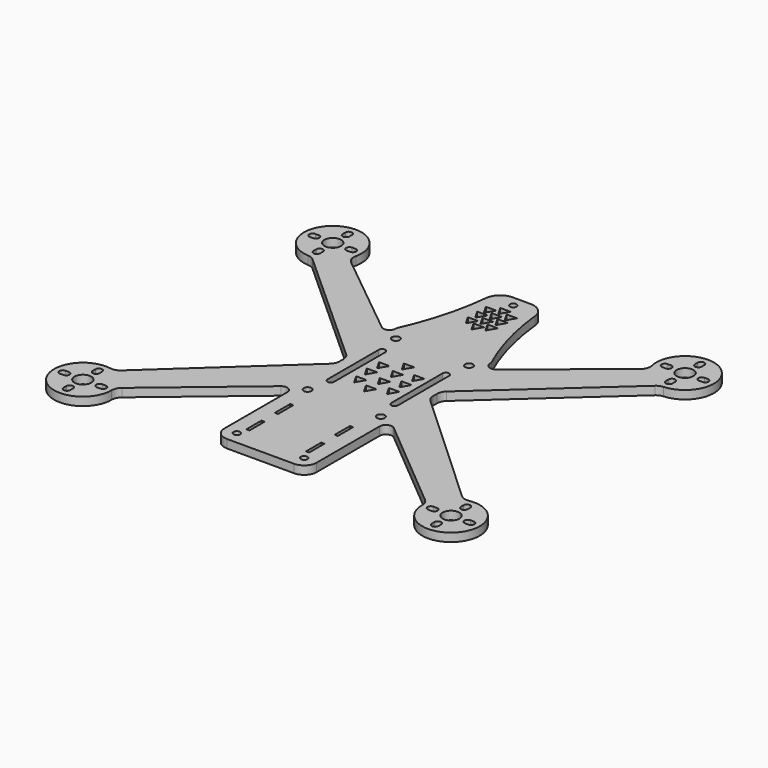
from build123d import *

# Parameters (mm, degrees)
F0_R     = 4
F0_R_2   = 1.5875
F0_W     = 1.5125
F0_H     = 9.125
F0_R_3   = 1.875
F1_DEPTH = 4


with BuildPart() as f1:
    # F0 (on Top) → F1 (new body)
    with BuildSketch(Plane.XY):
        with BuildLine():
            Line((38.480236, -122.769179), (-18.920834, -69.924559))
            ThreePointArc((-18.920834, -69.924559), (-20.116675, -68.246537), (-20.534285, -66.228767))
            Line((-20.534285, -66.228767), (-20.526315, -63.922007))
            ThreePointArc((-20.526315, -63.922007), (-20.091813, -61.900534), (-18.876589, -60.227698))
            Line((-18.876589, -60.227698), (38.944377, -8.035872))
            ThreePointArc((38.944377, -8.035872), (40.373627, -7.131205), (42.022729, -6.754855))
            ThreePointArc((42.022729, -6.754855), (49.57096, 17.9402), (27.859516, 3.960404))
            ThreePointArc((27.859516, 3.960404), (27.703945, 1.222553), (26.127751, -1.021471))
            Line((26.127751, -1.021471), (-15.525642, -34.751723))
            ThreePointArc((-15.525642, -34.751723), (-18.705137, -35.128041), (-20.413604, -32.420285))
            Line((-20.413604, -32.420285), (-20.413604, -31.709916))
            ThreePointArc((-20.413604, -31.709916), (-27.438374, -12.314948), (-31.230664, 7.961411))
            ThreePointArc((-31.230664, 7.961411), (-33.62772, 12.675751), (-38.564659, 14.572461))
            Line((-38.564659, 14.572461), (-42.913604, 14.572461))
            Line((-42.913604, 14.572461), (-47.262548, 14.572461))
            ThreePointArc((-47.262548, 14.572461), (-52.199487, 12.675751), (-54.596543, 7.961411))
            ThreePointArc((-54.596543, 7.961411), (-58.388833, -12.314948), (-65.413604, -31.709916))
            Line((-65.413604, -31.709916), (-65.413604, -32.420285))
            ThreePointArc((-65.413604, -32.420285), (-67.12207, -35.128041), (-70.301565, -34.751723))
            Line((-70.301565, -34.751723), (-111.954958, -1.021471))
            ThreePointArc((-111.954958, -1.021471), (-113.531152, 1.222553), (-113.686723, 3.960404))
            ThreePointArc((-113.686723, 3.960404), (-135.398167, 17.9402), (-127.849937, -6.754855))
            ThreePointArc((-127.849937, -6.754855), (-126.200834, -7.131205), (-124.771584, -8.035872))
            Line((-124.771584, -8.035872), (-66.950513, -60.227793))
            ThreePointArc((-66.950513, -60.227793), (-65.735325, -61.900549), (-65.300789, -63.921928))
            Line((-65.300789, -63.921928), (-65.292688, -66.228846))
            ThreePointArc((-65.292688, -66.228846), (-65.710273, -68.246712), (-66.906159, -69.924812))
            Line((-66.906159, -69.924812), (-124.30723, -122.769431))
            ThreePointArc((-124.30723, -122.769431), (-126.27943, -123.886715), (-128.542296, -124.018385))
            ThreePointArc((-128.542296, -124.018385), (-141.378038, -146.443924), (-117.125863, -137.528037))
            ThreePointArc((-117.125863, -137.528037), (-116.660561, -135.406816), (-115.339823, -133.682945))
            Line((-115.339823, -133.682945), (-69.915865, -95.567719))
            ThreePointArc((-69.915865, -95.567719), (-66.719647, -95.146928), (-64.987502, -97.865852))
            Line((-64.987502, -97.865852), (-64.987502, -135.432331))
            ThreePointArc((-64.987502, -135.432331), (-63.230143, -139.674972), (-58.987502, -141.432331))
            Line((-58.987502, -141.432331), (-26.839705, -141.432331))
            ThreePointArc((-26.839705, -141.432331), (-22.597064, -139.674972), (-20.839705, -135.432331))
            Line((-20.839705, -135.432331), (-20.839705, -97.865669))
            ThreePointArc((-20.839705, -97.865669), (-19.107564, -95.146748), (-15.911349, -95.56753))
            Line((-15.911349, -95.56753), (29.512817, -133.682693))
            ThreePointArc((29.512817, -133.682693), (30.833563, -135.406566), (31.298869, -137.527792))
            ThreePointArc((31.298869, -137.527792), (55.551047, -146.443669), (42.715303, -124.018133))
            ThreePointArc((42.715303, -124.018133), (40.452437, -123.886463), (38.480236, -122.769179))
        make_face()
        with BuildLine():
            Line((-129.276103, -145.46907), (-129.276103, -147.06907))
            ThreePointArc((-129.276103, -147.06907), (-130.876103, -148.66907), (-132.476103, -147.06907))
            Line((-132.476103, -147.06907), (-132.476103, -145.46907))
            ThreePointArc((-132.476103, -145.46907), (-130.876103, -143.86907), (-129.276103, -145.46907))
        make_face(mode=Mode.SUBTRACT)
        with BuildLine():
            ThreePointArc((-140.476103, -139.16907), (-142.076103, -137.56907), (-140.476103, -135.96907))
            Line((-140.476103, -135.96907), (-138.876103, -135.96907))
            ThreePointArc((-138.876103, -135.96907), (-137.276103, -137.56907), (-138.876103, -139.16907))
            Line((-138.876103, -139.16907), (-140.476103, -139.16907))
        make_face(mode=Mode.SUBTRACT)
        with Locations((-130.876103, -137.56907)):
            Circle(F0_R, mode=Mode.SUBTRACT)
        with BuildLine():
            ThreePointArc((-122.876103, -139.16907), (-124.476103, -137.56907), (-122.876103, -135.96907))
            Line((-122.876103, -135.96907), (-121.276103, -135.96907))
            ThreePointArc((-121.276103, -135.96907), (-119.676103, -137.56907), (-121.276103, -139.16907))
            Line((-121.276103, -139.16907), (-122.876103, -139.16907))
        make_face(mode=Mode.SUBTRACT)
        with BuildLine():
            ThreePointArc((-132.476103, -128.06907), (-130.876103, -126.46907), (-129.276103, -128.06907))
            Line((-129.276103, -128.06907), (-129.276103, -129.66907))
            ThreePointArc((-129.276103, -129.66907), (-130.876103, -131.26907), (-132.476103, -129.66907))
            Line((-132.476103, -129.66907), (-132.476103, -128.06907))
        make_face(mode=Mode.SUBTRACT)
        with Locations((-58.987502, -135.432331)):
            Circle(F0_R_2, mode=Mode.SUBTRACT)
        with Locations((-57.418487, -126.273915)):
            Rectangle(F0_W, F0_H, mode=Mode.SUBTRACT)
        with Locations((-57.418487, -109.148915)):
            Rectangle(F0_W, F0_H, mode=Mode.SUBTRACT)
        with Locations((-60.413604, -91.440733)):
            Circle(F0_R_3, mode=Mode.SUBTRACT)
        Polygon((-45.491698, -75.168784), (-40.491698, -75.168784), (-42.991698, -79.498911), align=None, mode=Mode.SUBTRACT)
        Polygon((-52.961795, -71.736577), (-47.961795, -71.736577), (-50.461795, -76.066704), align=None, mode=Mode.SUBTRACT)
        Polygon((-53.819845, -64.316954), (-48.819845, -64.316954), (-51.319845, -68.647081), align=None, mode=Mode.SUBTRACT)
        with Locations((-26.839705, -135.432331)):
            Circle(F0_R_2, mode=Mode.SUBTRACT)
        with Locations((-28.893487, -126.273915)):
            Rectangle(F0_W, F0_H, mode=Mode.SUBTRACT)
        with Locations((-28.893487, -109.148915)):
            Rectangle(F0_W, F0_H, mode=Mode.SUBTRACT)
        with BuildLine():
            Line((43.448896, -147.06907), (43.448896, -145.46907))
            ThreePointArc((43.448896, -145.46907), (45.048896, -143.86907), (46.648896, -145.46907))
            Line((46.648896, -145.46907), (46.648896, -147.06907))
            ThreePointArc((46.648896, -147.06907), (45.048896, -148.66907), (43.448896, -147.06907))
        make_face(mode=Mode.SUBTRACT)
        with BuildLine():
            Line((35.448896, -135.96907), (37.048896, -135.96907))
            ThreePointArc((37.048896, -135.96907), (38.648896, -137.56907), (37.048896, -139.16907))
            Line((37.048896, -139.16907), (35.448896, -139.16907))
            ThreePointArc((35.448896, -139.16907), (33.848896, -137.56907), (35.448896, -135.96907))
        make_face(mode=Mode.SUBTRACT)
        with Locations((45.048896, -137.56907)):
            Circle(F0_R, mode=Mode.SUBTRACT)
        with BuildLine():
            Line((53.048896, -135.96907), (54.648896, -135.96907))
            ThreePointArc((54.648896, -135.96907), (56.248896, -137.56907), (54.648896, -139.16907))
            Line((54.648896, -139.16907), (53.048896, -139.16907))
            ThreePointArc((53.048896, -139.16907), (51.448896, -137.56907), (53.048896, -135.96907))
        make_face(mode=Mode.SUBTRACT)
        with BuildLine():
            Line((46.648896, -128.06907), (46.648896, -129.66907))
            ThreePointArc((46.648896, -129.66907), (45.048896, -131.26907), (43.448896, -129.66907))
            Line((43.448896, -129.66907), (43.448896, -128.06907))
            ThreePointArc((43.448896, -128.06907), (45.048896, -126.46907), (46.648896, -128.06907))
        make_face(mode=Mode.SUBTRACT)
        with Locations((-25.413604, -91.440733)):
            Circle(F0_R_3, mode=Mode.SUBTRACT)
        Polygon((-37.466391, -71.484211), (-32.466391, -71.484211), (-34.966391, -75.814338), align=None, mode=Mode.SUBTRACT)
        Polygon((-45.188854, -67.345376), (-40.188854, -67.345376), (-42.688854, -71.675503), align=None, mode=Mode.SUBTRACT)
        Polygon((-37.314969, -64.316954), (-32.314969, -64.316954), (-34.814969, -68.647081), align=None, mode=Mode.SUBTRACT)
        with BuildLine():
            ThreePointArc((-59.751098, -49.775325), (-58.163598, -48.187825), (-56.576098, -49.775325))
            Line((-56.576098, -49.775325), (-56.576098, -80.375449))
            ThreePointArc((-56.576098, -80.375449), (-58.163598, -81.962949), (-59.751098, -80.375449))
            Line((-59.751098, -80.375449), (-59.751098, -49.775325))
        make_face(mode=Mode.SUBTRACT)
        Polygon((-53.401707, -57.506855), (-48.401707, -57.506855), (-50.901707, -61.836982), align=None, mode=Mode.SUBTRACT)
        Polygon((-45.544053, -52.541251), (-40.544053, -52.541251), (-43.044053, -56.871378), align=None, mode=Mode.SUBTRACT)
        with Locations((-60.413604, -38.709916)):
            Circle(F0_R_3, mode=Mode.SUBTRACT)
        with BuildLine():
            Line((-128.702157, -2.524999), (-128.702157, -0.924999))
            ThreePointArc((-128.702157, -0.924999), (-127.102157, 0.675001), (-125.502157, -0.924999))
            Line((-125.502157, -0.924999), (-125.502157, -2.524999))
            ThreePointArc((-125.502157, -2.524999), (-127.102157, -4.124999), (-128.702157, -2.524999))
        make_face(mode=Mode.SUBTRACT)
        with BuildLine():
            ThreePointArc((-136.702157, 5.375001), (-138.302157, 6.975001), (-136.702157, 8.575001))
            Line((-136.702157, 8.575001), (-135.102157, 8.575001))
            ThreePointArc((-135.102157, 8.575001), (-133.502157, 6.975001), (-135.102157, 5.375001))
            Line((-135.102157, 5.375001), (-136.702157, 5.375001))
        make_face(mode=Mode.SUBTRACT)
        with Locations((-127.102157, 6.975001)):
            Circle(F0_R, mode=Mode.SUBTRACT)
        with BuildLine():
            ThreePointArc((-128.702157, 16.475001), (-127.102157, 18.075001), (-125.502157, 16.475001))
            Line((-125.502157, 16.475001), (-125.502157, 14.875001))
            ThreePointArc((-125.502157, 14.875001), (-127.102157, 13.275001), (-128.702157, 14.875001))
            Line((-128.702157, 14.875001), (-128.702157, 16.475001))
        make_face(mode=Mode.SUBTRACT)
        with BuildLine():
            Line((-117.502157, 5.375001), (-119.102157, 5.375001))
            ThreePointArc((-119.102157, 5.375001), (-120.702157, 6.975001), (-119.102157, 8.575001))
            Line((-119.102157, 8.575001), (-117.502157, 8.575001))
            ThreePointArc((-117.502157, 8.575001), (-115.902157, 6.975001), (-117.502157, 5.375001))
        make_face(mode=Mode.SUBTRACT)
        Polygon((-45.466221, -11.027573), (-40.466221, -11.027573), (-42.966221, -15.3577), align=None, mode=Mode.SUBTRACT)
        Polygon((-50.24943, -8.434934), (-45.24943, -8.434934), (-47.74943, -12.765061), align=None, mode=Mode.SUBTRACT)
        Polygon((-45.618231, -5.409554), (-40.618231, -5.409554), (-43.118231, -9.739681), align=None, mode=Mode.SUBTRACT)
        Polygon((-50.330999, -2.702954), (-45.330999, -2.702954), (-47.830999, -7.033081), align=None, mode=Mode.SUBTRACT)
        Polygon((-50.24943, 2.370082), (-45.24943, 2.370082), (-47.74943, -1.960045), align=None, mode=Mode.SUBTRACT)
        Polygon((-45.474085, 4.969502), (-40.474085, 4.969502), (-42.974085, 0.639375), align=None, mode=Mode.SUBTRACT)
        with Locations((-42.913604, 9.572461)):
            Circle(F0_R_2, mode=Mode.SUBTRACT)
        Polygon((-44.962982, -59.88714), (-39.962982, -59.88714), (-42.462982, -64.217267), align=None, mode=Mode.SUBTRACT)
        Polygon((-36.709285, -57.45254), (-31.709285, -57.45254), (-34.209285, -61.782667), align=None, mode=Mode.SUBTRACT)
        with BuildLine():
            ThreePointArc((-26.080192, -49.661388), (-26.076098, -49.775113), (-26.080162, -49.888839))
            Line((-26.080162, -49.888839), (-26.076098, -80.375238))
            ThreePointArc((-26.076098, -80.375238), (-27.721363, -81.961898), (-29.246879, -80.259786))
            Line((-29.246879, -80.259786), (-29.246879, -49.890988))
            ThreePointArc((-29.246879, -49.890988), (-29.251098, -49.775325), (-29.246879, -49.659662))
            ThreePointArc((-29.246879, -49.659662), (-27.662733, -48.187825), (-26.080192, -49.661388))
        make_face(mode=Mode.SUBTRACT)
        with Locations((-25.413604, -38.709916)):
            Circle(F0_R_3, mode=Mode.SUBTRACT)
        Polygon((-40.887563, -8.434934), (-35.887563, -8.434934), (-38.387563, -12.765061), align=None, mode=Mode.SUBTRACT)
        Polygon((-40.65072, -2.702954), (-35.65072, -2.702954), (-38.15072, -7.033081), align=None, mode=Mode.SUBTRACT)
        Polygon((-45.363492, -0.314779), (-40.363492, -0.314779), (-42.863492, -4.644906), align=None, mode=Mode.SUBTRACT)
        Polygon((-40.349924, 2.370082), (-35.349924, 2.370082), (-37.849924, -1.960045), align=None, mode=Mode.SUBTRACT)
        with BuildLine():
            Line((39.67495, -2.524999), (39.67495, -0.924999))
            ThreePointArc((39.67495, -0.924999), (41.27495, 0.675001), (42.87495, -0.924999))
            Line((42.87495, -0.924999), (42.87495, -2.524999))
            ThreePointArc((42.87495, -2.524999), (41.27495, -4.124999), (39.67495, -2.524999))
        make_face(mode=Mode.SUBTRACT)
        with BuildLine():
            Line((31.67495, 8.575001), (33.27495, 8.575001))
            ThreePointArc((33.27495, 8.575001), (34.87495, 6.975001), (33.27495, 5.375001))
            Line((33.27495, 5.375001), (31.67495, 5.375001))
            ThreePointArc((31.67495, 5.375001), (30.07495, 6.975001), (31.67495, 8.575001))
        make_face(mode=Mode.SUBTRACT)
        with Locations((41.27495, 6.975001)):
            Circle(F0_R, mode=Mode.SUBTRACT)
        with BuildLine():
            Line((49.27495, 8.575001), (50.87495, 8.575001))
            ThreePointArc((50.87495, 8.575001), (52.47495, 6.975001), (50.87495, 5.375001))
            Line((50.87495, 5.375001), (49.27495, 5.375001))
            ThreePointArc((49.27495, 5.375001), (47.67495, 6.975001), (49.27495, 8.575001))
        make_face(mode=Mode.SUBTRACT)
        with BuildLine():
            Line((42.87495, 16.475001), (42.87495, 14.875001))
            ThreePointArc((42.87495, 14.875001), (41.27495, 13.275001), (39.67495, 14.875001))
            Line((39.67495, 14.875001), (39.67495, 16.475001))
            ThreePointArc((39.67495, 16.475001), (41.27495, 18.075001), (42.87495, 16.475001))
        make_face(mode=Mode.SUBTRACT)
    extrude(amount=F1_DEPTH)


solid = f1.part
